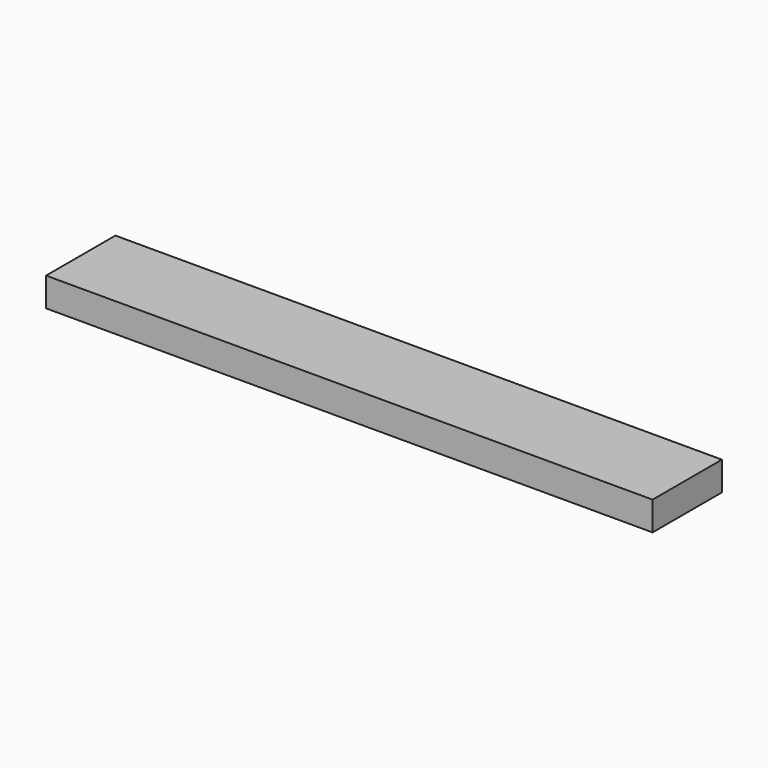
from build123d import *

# Parameters (mm, degrees)
F0_W     = 105
F0_H     = 10
F0_H_2   = 20
F1_DEPTH = 10


with BuildPart() as f1:
    # F0 (on Top) → F1 (new body)
    with BuildSketch(Plane.XY):
        with Locations((42.124625, 5)):
            Rectangle(F0_W, F0_H)
        with Locations((42.124625, 20)):
            Rectangle(F0_W, F0_H_2)
        Polygon((-10.375375, 30), (-115.375375, 30), (-115.375375, 0), (-10.375375, 0), (-10.375375, 10), align=None)
    extrude(amount=F1_DEPTH)


solid = f1.part
